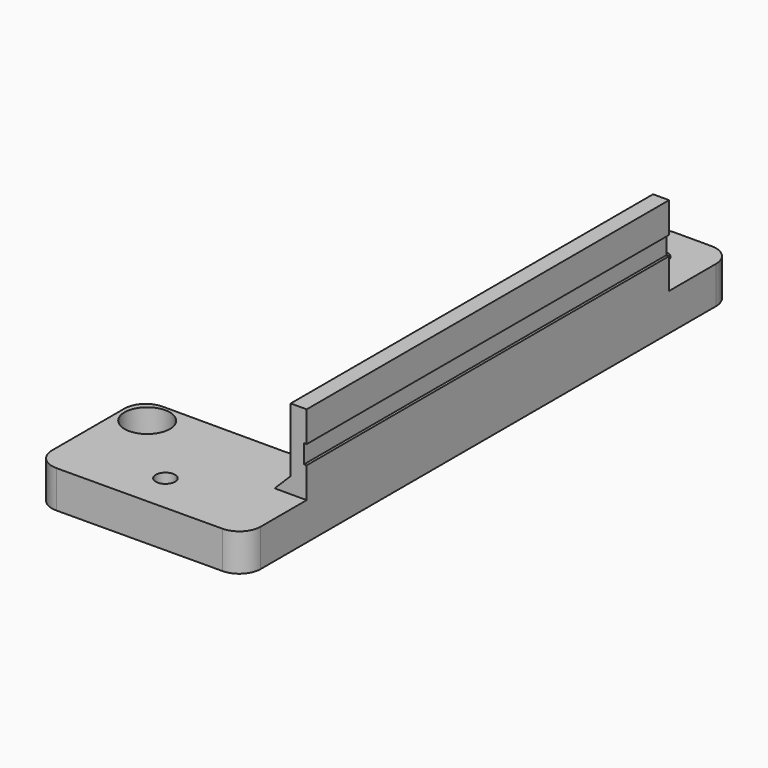
from build123d import *

# Parameters (mm, degrees)
PAD_DEPTH       = 22
SKETCH001_W     = 16
SKETCH001_H     = 16
POCKET_DEPTH    = 39.001
SKETCH002_W     = 38
SKETCH002_H     = 85
POCKET001_DEPTH = 15
SKETCH003_R     = 1.8
POCKET002_DEPTH = 7.001
SKETCH004_R     = 3.6
POCKET003_DEPTH = 3
FILLET_R        = 4
FILLET001_R     = 4
SKETCH005_W     = 87.5
SKETCH005_H     = 3.5
POCKET004_DEPTH = 0.5
SKETCH006_R     = 1.8
POCKET005_DEPTH = 22.001
SKETCH007_R     = 3.6
POCKET006_DEPTH = 3
FILLET002_R     = 4
CHAMFER_SIZE    = 3
SKETCH018_R     = 4.25
POCKET016_DEPTH = 5


with BuildPart() as part:
    # Sketch → Pad (new body)
    with BuildSketch(Plane.XY):
        Polygon((39, 0), (39, 25), (70, 25), (70, 76), (63, 83), (63, 115), (78, 115), (78, 0.241195), align=None)
    extrude(amount=PAD_DEPTH)

    # Sketch001 → Pocket (cut, through all)
    with BuildSketch(Plane.YZ.offset(78)):
        with Locations((7, 15)):
            Rectangle(SKETCH001_W, SKETCH001_H)
        with Locations((108, 15)):
            Rectangle(SKETCH001_W, SKETCH001_H)
    extrude(amount=-POCKET_DEPTH, mode=Mode.SUBTRACT)

    # Sketch002 → Pocket001 (cut)
    with BuildSketch(Plane.XY.offset(22)):
        with Locations((56, 57.5)):
            Rectangle(SKETCH002_W, SKETCH002_H)
    extrude(amount=-POCKET001_DEPTH, mode=Mode.SUBTRACT)

    # Sketch003 → Pocket002 (cut, through all)
    with BuildSketch(Plane.XY.offset(7)):
        with Locations((68, 94.119095)):
            Circle(SKETCH003_R)
        with Locations((44, 20.129047)):
            Circle(SKETCH003_R)
    extrude(amount=-POCKET002_DEPTH, mode=Mode.SUBTRACT)

    # Sketch004 → Pocket003 (cut)
    with BuildSketch(Plane.XY.offset(7)):
        with Locations((68, 94.116013)):
            Circle(SKETCH004_R)
        with Locations((44, 20.124216)):
            Circle(SKETCH004_R)
    extrude(amount=-POCKET003_DEPTH, mode=Mode.SUBTRACT)

    # Fillet
    fillet_edges = [part.edges().sort_by_distance(p)[0] for p in [
        (39, 25, 3.5),
        (70, 25, 3.5),
    ]]
    fillet(fillet_edges, radius=FILLET_R)

    # Fillet001
    fillet001_edges = [part.edges().sort_by_distance(p)[0] for p in [
        (63, 83, 3.5),
        (70, 76, 3.5),
    ]]
    fillet(fillet001_edges, radius=FILLET001_R)

    # Sketch005 → Pocket004 (cut)
    with BuildSketch(Plane.YZ.offset(78)):
        with Locations((57.25, 14.5)):
            Rectangle(SKETCH005_W, SKETCH005_H)
    extrude(amount=-POCKET004_DEPTH, mode=Mode.SUBTRACT)

    # Sketch006 → Pocket005 (cut, through all)
    with BuildSketch(Plane(origin=(0, 0, 0), x_dir=(1, 0, 0), z_dir=(0, 0, -1))):
        with Locations((70, -107.5)):
            Circle(SKETCH006_R)
        with Locations((57.5, -7.5)):
            Circle(SKETCH006_R)
    extrude(amount=-POCKET005_DEPTH, mode=Mode.SUBTRACT)

    # Sketch007 → Pocket006 (cut)
    with BuildSketch(Plane(origin=(0, 0, 0), x_dir=(1, 0, 0), z_dir=(0, 0, -1))):
        with Locations((57.5, -7.5)):
            Circle(SKETCH007_R)
        with Locations((70, -107.5)):
            Circle(SKETCH007_R)
    extrude(amount=-POCKET006_DEPTH, mode=Mode.SUBTRACT)

    # Fillet002
    fillet002_edges = [part.edges().sort_by_distance(p)[0] for p in [
        (39, 0, 3.5),
        (78, 0.241195, 3.5),
        (78, 115, 3.5),
        (63, 115, 3.5),
    ]]
    fillet(fillet002_edges, radius=FILLET002_R)

    # Chamfer
    chamfer_edges = [part.edges().sort_by_distance(p)[0] for p in [
        (75, 57.5, 7),
    ]]
    chamfer(chamfer_edges, length=CHAMFER_SIZE)

    # Sketch018 → Pocket016 (cut, symmetric)
    with BuildSketch(Plane.XY.offset(7)):
        with Locations((44, 20.095486)):
            Circle(SKETCH018_R)
        with Locations((68, 94.107513)):
            Circle(SKETCH018_R)
    extrude(amount=POCKET016_DEPTH, both=True, mode=Mode.SUBTRACT)


solid = part.part
